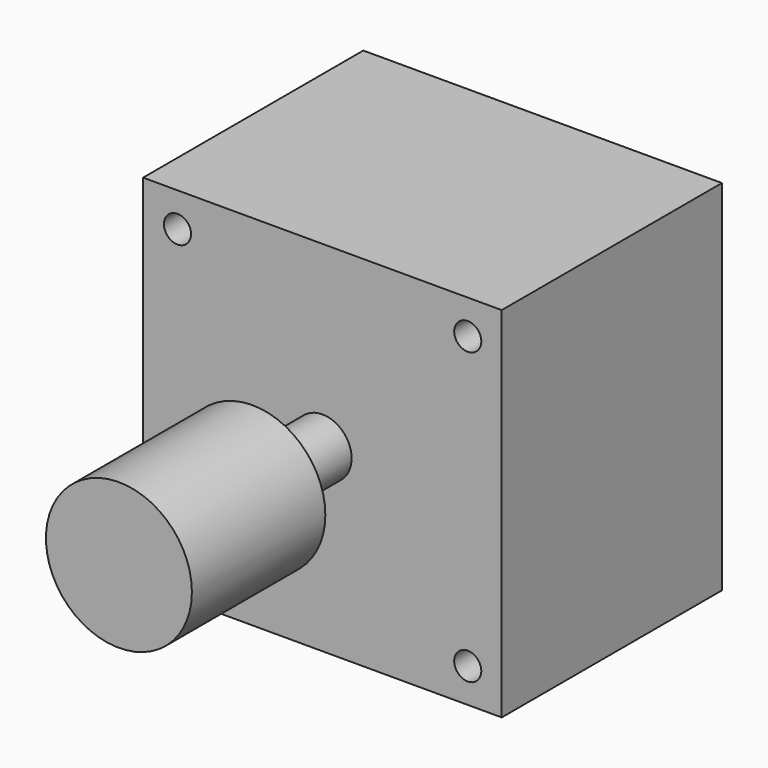
from build123d import *

# Parameters (mm, degrees)
F0_W     = 86
F0_H     = 86
F0_R     = 3.25
F1_DEPTH = 66
F2_R     = 7
F3_DEPTH = 36
F5_R     = 17.5
F6_DEPTH = 40


with BuildPart() as f1:
    # F0 (on Front) → F1 (new body)
    with BuildSketch(Plane.XZ):
        Rectangle(F0_W, F0_H)
        with Locations((-34.75, -34.8)):
            Circle(F0_R, mode=Mode.SUBTRACT)
        with Locations((34.85, -34.8)):
            Circle(F0_R, mode=Mode.SUBTRACT)
        with Locations((-34.75, 34.8)):
            Circle(F0_R, mode=Mode.SUBTRACT)
        with Locations((34.85, 34.8)):
            Circle(F0_R, mode=Mode.SUBTRACT)
    extrude(amount=-F1_DEPTH)

    # F2 (on face) → F3 (join)
    with BuildSketch(Plane.XZ):
        Circle(F2_R)
    extrude(amount=F3_DEPTH)

    # F5 (on offset) → F6 (join)
    with BuildSketch(Plane(origin=(-0.000934, -21, 0), x_dir=(1, 0, 0), z_dir=(0, -1, 0))):
        Circle(F5_R)
    extrude(amount=F6_DEPTH)


solid = f1.part
